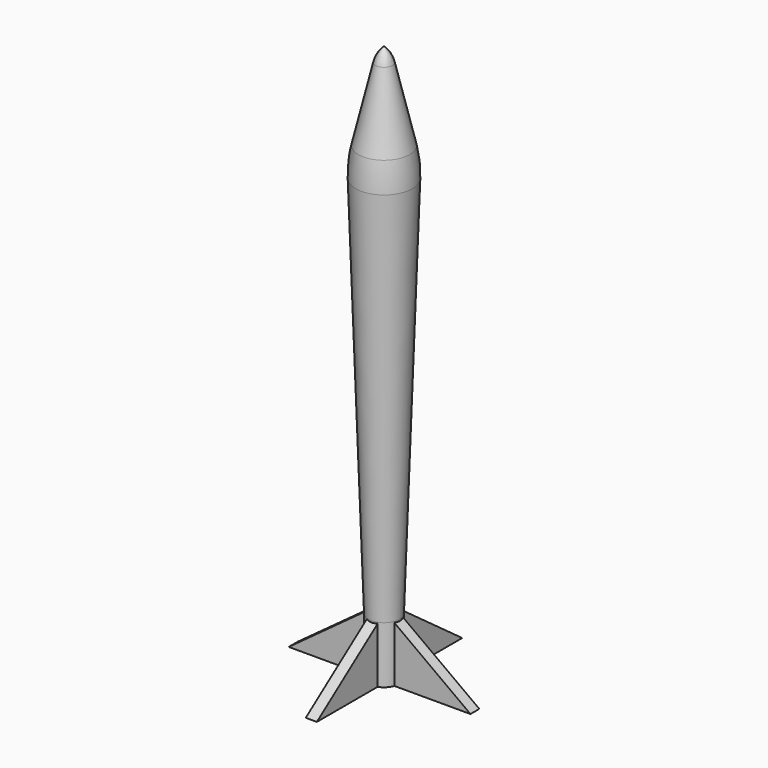
from build123d import *

# Parameters (mm, degrees)
F2_R     = 20
F3_R     = 5
F5_DEPTH = 1
F6_DEPTH = 1
F7_COUNT = 4


with BuildPart() as f1:
    # F0 (on Front) → F1 (revolve)
    with BuildSketch(Plane.XZ):
        Polygon((0, 27.0555268526), (0, 29.0555268526), (-1.1768030475, 27.9391527077), (-5.1872356048, 10.792308032), (-2.8048087843, -60.7303120611), (-2.8048087843, -70.9474980831), (-1.6, -70.9444731474), (-1.6, -61.4324361086), (-4, 10.6177468147), align=None)
    revolve(axis=Axis((0, 0, 28.0555268526), (0, 0, -1)))

    # F2
    f2_edges = [f1.edges().sort_by_distance(p)[0] for p in [
        (5.187236, 0, 10.792308),
    ]]
    fillet(f2_edges, radius=F2_R)

    # F3
    f3_edges = [f1.edges().sort_by_distance(p)[0] for p in [
        (1.176803, 0, 27.939153),
    ]]
    fillet(f3_edges, radius=F3_R)

    # F4 (on Front) → F5 (join)
    with BuildSketch(Plane.XZ):
        Polygon((-2.6657825802, -70.9118023515), (-2.6657825802, -60.9118023515), (-16.3306742907, -70.9118023515), align=None)
    extrude(amount=F5_DEPTH)



with BuildPart() as f6:
    # F4 (on Front) → F6 (new body)
    with BuildSketch(Plane.XZ):
        Polygon((-2.6657825802, -70.9118023515), (-2.6657825802, -60.9118023515), (-16.3306742907, -70.9118023515), align=None)
    extrude(amount=-F6_DEPTH)


with BuildPart() as f1_1:
    add(f1.part)

    add(f6.part)  # F7 merges F6
    # F7: F1, F6 ×4 about axis
    f7_axis = Axis((0, 0, -65.9047495574), (0, 0, -1))
    for i in range(1, F7_COUNT):
        add(f1.part.rotate(f7_axis, i * 360 / F7_COUNT))
        add(f6.part.rotate(f7_axis, i * 360 / F7_COUNT))


solid = f1_1.part
